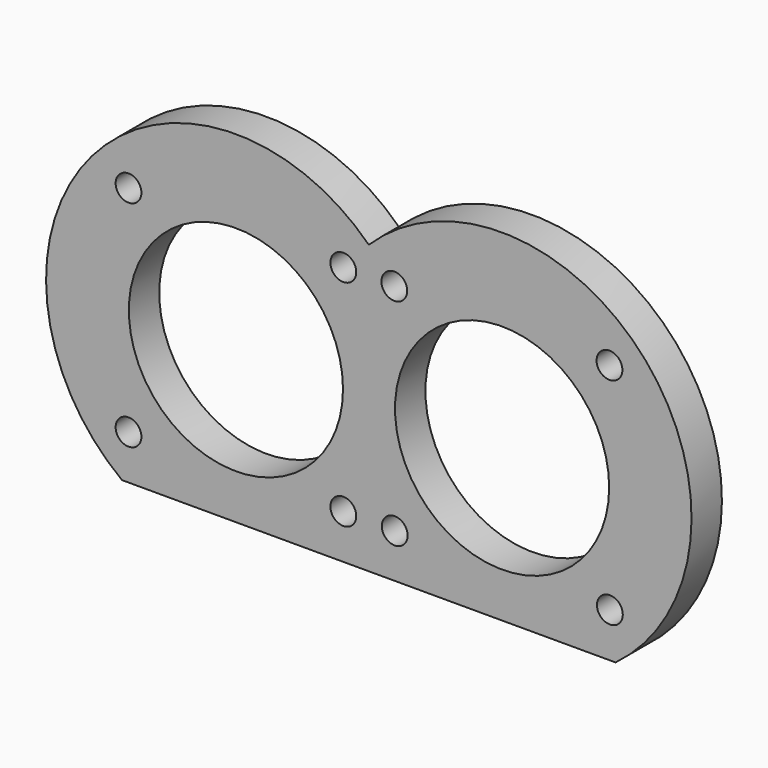
from build123d import *

# Parameters (mm, degrees)
F0_R     = 3.4
F0_R_2   = 28.2
F1_DEPTH = 10


with BuildPart() as f1:
    # F0 (on Front) → F1 (new body)
    with BuildSketch(Plane.XZ):
        with BuildLine():
            ThreePointArc((65, -40), (72.936036, 32.570802), (0, 35.707142))
            ThreePointArc((0, 35.707142), (-72.936036, 32.570802), (-65, -40))
            Line((-65, -40), (65, -40))
        make_face()
        with Locations((-63.284271, -28.284271)):
            Circle(F0_R, mode=Mode.SUBTRACT)
        with Locations((-6.715729, -28.284271)):
            Circle(F0_R, mode=Mode.SUBTRACT)
        with Locations((-35, 0)):
            Circle(F0_R_2, mode=Mode.SUBTRACT)
        with Locations((6.819313, -28.387856)):
            Circle(F0_R, mode=Mode.SUBTRACT)
        with Locations((63.49144, -28.284271)):
            Circle(F0_R, mode=Mode.SUBTRACT)
        with Locations((35.103584, 0)):
            Circle(F0_R_2, mode=Mode.SUBTRACT)
        with Locations((-63.284271, 28.284271)):
            Circle(F0_R, mode=Mode.SUBTRACT)
        with Locations((-6.715729, 28.284271)):
            Circle(F0_R, mode=Mode.SUBTRACT)
        with Locations((6.715729, 28.284271)):
            Circle(F0_R, mode=Mode.SUBTRACT)
        with Locations((63.387856, 28.387856)):
            Circle(F0_R, mode=Mode.SUBTRACT)
        with BuildLine():
            ThreePointArc((65, -40), (72.936036, 32.570802), (0, 35.707142))
            ThreePointArc((0, 35.707142), (-72.936036, 32.570802), (-65, -40))
            Line((-65, -40), (65, -40))
        make_face()
        with Locations((-63.284271, -28.284271)):
            Circle(F0_R, mode=Mode.SUBTRACT)
        with Locations((-6.715729, -28.284271)):
            Circle(F0_R, mode=Mode.SUBTRACT)
        with Locations((-35, 0)):
            Circle(F0_R_2, mode=Mode.SUBTRACT)
        with Locations((6.819313, -28.387856)):
            Circle(F0_R, mode=Mode.SUBTRACT)
        with Locations((63.49144, -28.284271)):
            Circle(F0_R, mode=Mode.SUBTRACT)
        with Locations((35.103584, 0)):
            Circle(F0_R_2, mode=Mode.SUBTRACT)
        with Locations((-63.284271, 28.284271)):
            Circle(F0_R, mode=Mode.SUBTRACT)
        with Locations((-6.715729, 28.284271)):
            Circle(F0_R, mode=Mode.SUBTRACT)
        with Locations((6.715729, 28.284271)):
            Circle(F0_R, mode=Mode.SUBTRACT)
        with Locations((63.387856, 28.387856)):
            Circle(F0_R, mode=Mode.SUBTRACT)
    extrude(amount=F1_DEPTH)


solid = f1.part
